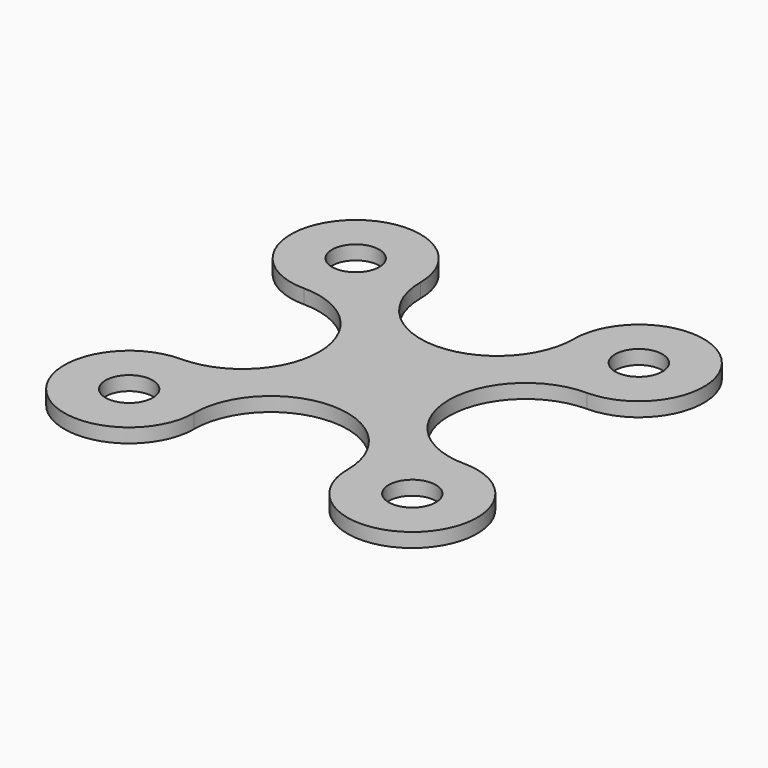
from build123d import *

# Parameters (mm, degrees)
F1_DEPTH = 7.62
F3_D     = 25.4
F5_D     = 25.4


with BuildPart() as f1:
    # F0 (on Top) → F1 (new body)
    with BuildSketch(Plane.XY):
        with BuildLine():
            ThreePointArc((41.275, 76.2), (0, 34.925), (-41.275, 76.2))
            ThreePointArc((-41.275, 76.2), (-100.895704, 100.895704), (-76.2, 41.275))
            ThreePointArc((-76.2, 41.275), (-34.925, 0), (-76.2, -41.275))
            ThreePointArc((-76.2, -41.275), (-100.895704, -100.895704), (-41.275, -76.2))
            ThreePointArc((-41.275, -76.2), (0, -34.925), (41.275, -76.2))
            ThreePointArc((41.275, -76.2), (100.895704, -100.895704), (76.2, -41.275))
            ThreePointArc((76.2, -41.275), (34.925, 0), (76.2, 41.275))
            ThreePointArc((76.2, 41.275), (100.895704, 100.895704), (41.275, 76.2))
        make_face()
    extrude(amount=F1_DEPTH)

    # F3 (through all)
    with Locations(Plane(origin=(0, 0, 0), x_dir=(1, 0, 0), z_dir=(0, 0, -1))):
        with Locations((-76.199986, 76.200023)):
            Hole(F3_D / 2)

    # F5 (through all)
    with Locations(Plane(origin=(0, 0, 0), x_dir=(1, 0, 0), z_dir=(0, 0, -1))):
        with Locations((-76.199934, -76.200038), (76.200068, -76.200001), (76.200128, 76.199986)):
            Hole(F5_D / 2)


solid = f1.part
